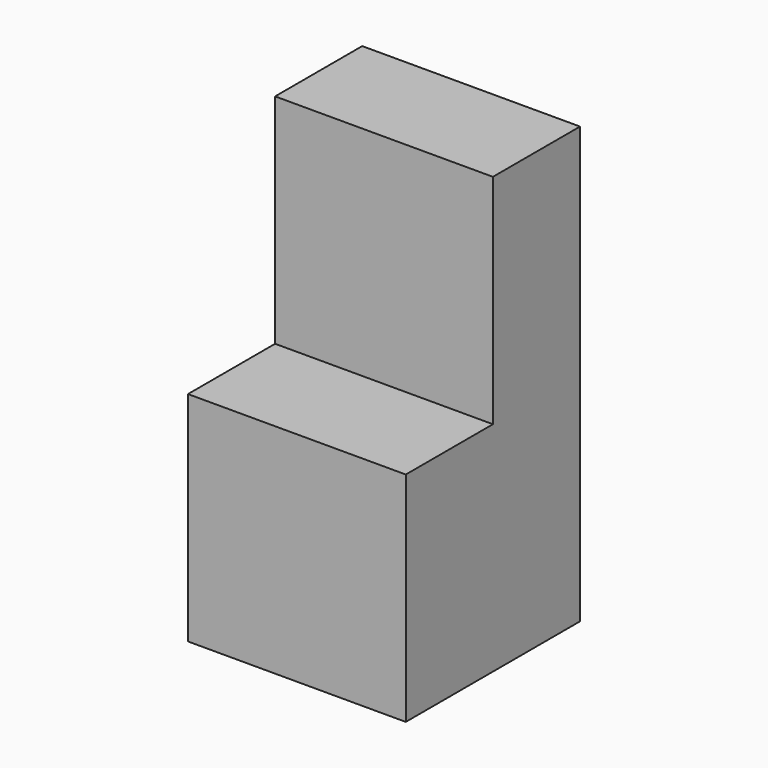
from build123d import *

# Parameters (mm, degrees)
F0_W     = 15.6972
F0_H     = 15.6972
F1_DEPTH = 7.8486
F2_DEPTH = 7.8486


with BuildPart() as f1:
    # F0 (on Front) → F1 (new body)
    with BuildSketch(Plane.XZ):
        with Locations((0.617838, -29.792661)):
            Rectangle(F0_W, F0_H)
    extrude(amount=F1_DEPTH)

    # F0 (on Front) → F2 (join)
    with BuildSketch(Plane.XZ):
        with Locations((0.617838, -14.095461)):
            Rectangle(F0_W, F0_H)
        with Locations((0.617838, -29.792661)):
            Rectangle(F0_W, F0_H)
    extrude(amount=-F2_DEPTH)


solid = f1.part
